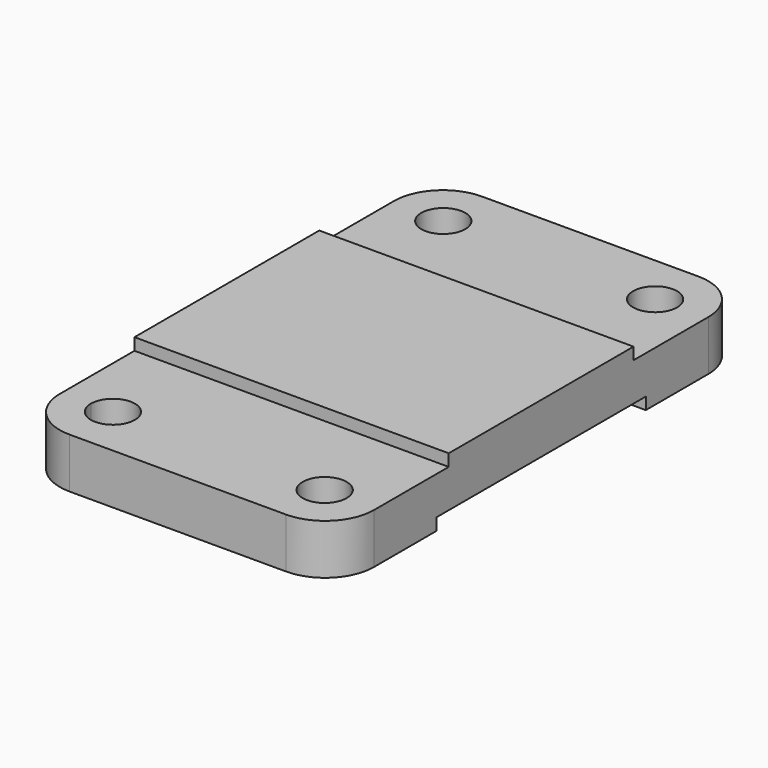
from build123d import *

# Parameters (mm, degrees)
F0_W     = 81.72
F0_H     = 134.06
F1_DEPTH = 13.04
F2_W     = 81.72
F2_H     = 60.06
F3_DEPTH = 3.12
F4_W     = 81.72
F4_H     = 68.02
F5_DEPTH = 3.12
F6_R     = 5.72
F7_DEPTH = 25.4
F9_DEPTH = 25.4
F10_R    = 12.7


with BuildPart() as f1:
    # F0 (on Top) → F1 (new body)
    with BuildSketch(Plane.XY):
        Rectangle(F0_W, F0_H)
    extrude(amount=F1_DEPTH)

    # F2 (on face) → F3 (join)
    with BuildSketch(Plane.XY.offset(13.04)):
        Rectangle(F2_W, F2_H)
    extrude(amount=F3_DEPTH)

    # F4 (on face) → F5 (cut)
    with BuildSketch(Plane(origin=(0, 0, 0), x_dir=(1, 0, 0), z_dir=(0, 0, -1))):
        Rectangle(F4_W, F4_H)
    extrude(amount=-F5_DEPTH, mode=Mode.SUBTRACT)

    # F6 (on face) → F7 (cut)
    with BuildSketch(Plane.XY.offset(13.04)):
        with Locations((-27.55223, 53.701179)):
            Circle(F6_R)
        with Locations((27.534222, 53.702354)):
            Circle(F6_R)
    extrude(amount=-F7_DEPTH, mode=Mode.SUBTRACT)

    # F8 (on face) → F9 (cut)
    with BuildSketch(Plane.XY.offset(13.04)):
        with BuildLine():
            ThreePointArc((-27.53, -59.42), (-23.485349, -57.744651), (-21.81, -53.7))
            ThreePointArc((-21.81, -53.7), (-27.53, -47.98), (-33.25, -53.7))
            ThreePointArc((-33.25, -53.7), (-31.574651, -57.744651), (-27.53, -59.42))
        make_face()
        with BuildLine():
            ThreePointArc((27.53, -59.42), (31.574651, -57.744651), (33.25, -53.7))
            ThreePointArc((33.25, -53.7), (23.485349, -49.655349), (27.53, -59.42))
        make_face()
    extrude(amount=-F9_DEPTH, mode=Mode.SUBTRACT)

    # F10
    f10_edges = [f1.edges().sort_by_distance(p)[0] for p in [
        (-40.86, 67.03, 6.52),
        (40.86, 67.03, 6.52),
        (40.86, -67.03, 6.52),
        (-40.86, -67.03, 6.52),
    ]]
    fillet(f10_edges, radius=F10_R)


solid = f1.part
